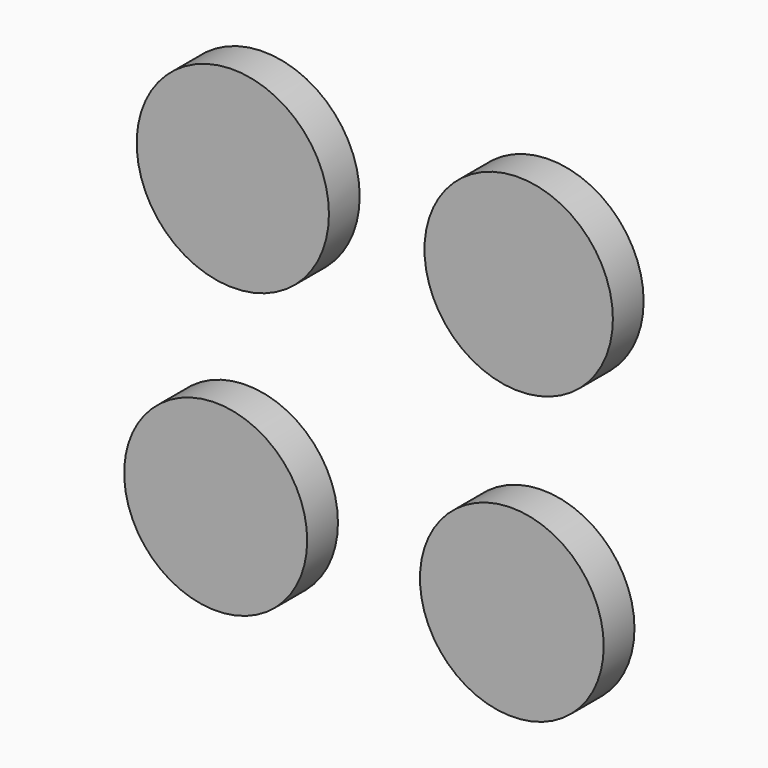
from build123d import *

# Parameters (mm, degrees)
F0_R     = 30.226
F0_R_2   = 30.353
F0_R_3   = 31.115
F0_R_4   = 31.75
F1_DEPTH = 12.7


with BuildPart() as f1:
    # F0 (on Front) → F1 (new body)
    with BuildSketch(Plane.XZ):
        with Locations((-51.052552, -49.84099)):
            Circle(F0_R)
        with Locations((46.770852, -48.710082)):
            Circle(F0_R_2)
        with Locations((49.032658, 47.416959)):
            Circle(F0_R_3)
        with Locations((-45.398023, 47.416959)):
            Circle(F0_R_4)
    extrude(amount=F1_DEPTH)


solid = f1.part
